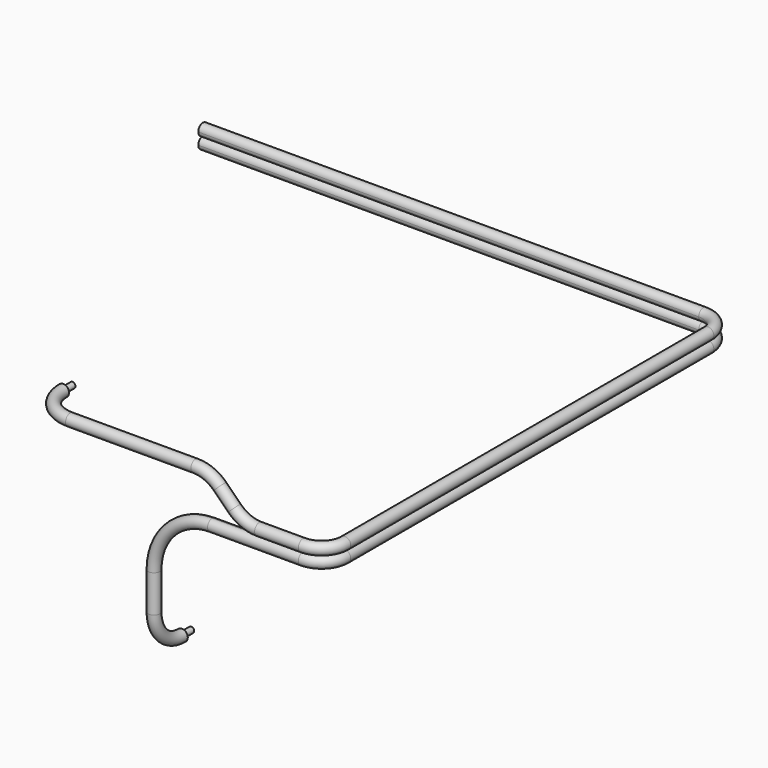
from build123d import *

# Parameters (mm, degrees)
F5_FACE_R  = 0.5
F10_FACE_R = 0.5
F14_R      = 0.25


with BuildPart() as f3:
    # F3: sweep along a path in F0
    with BuildLine(Plane.XY) as f3_path:
        ThreePointArc((23, 0), (24.4142135624, 0.5857864376), (25, 2))
        Line((25, 2), (25, 41))
        ThreePointArc((25, 41), (24.4142135624, 42.4142135624), (23, 43))
        Line((23, 43), (-20, 43))
    # F2 (on plane+point) → F3 (sweep)
    with BuildSketch(Plane.YZ.offset(23)):
        with BuildLine():
            ThreePointArc((0, 0.5), (-0.3535533906, -0.3535533906), (0.5, 0))
            ThreePointArc((0.5, 0), (0.3535533906, 0.3535533906), (0, 0.5))
        make_face()
        with BuildLine():
            ThreePointArc((0.5, 1), (-0.3535533906, 1.3535533906), (0, 0.5))
            ThreePointArc((0, 0.5), (0.3535533906, 0.6464466094), (0.5, 1))
        make_face()
    sweep(path=f3_path.line)

    # F5: sweep along a path in F4
    with BuildLine(Plane.XZ) as f5_path:
        Line((23, 1), (19.2426406871, 1))
        ThreePointArc((19.2426406871, 1), (18.09459039, 1.2283614025), (17.1213203436, 1.8786796564))
        Line((17.1213203436, 1.8786796564), (15.8786796564, 3.1213203436))
        ThreePointArc((15.8786796564, 3.1213203436), (14.90540961, 3.7716385975), (13.7573593129, 4))
        Line((13.7573593129, 4), (3, 4))
    # F2 (on plane+point) → F5 (sweep)
    with BuildSketch(Plane.YZ.offset(23)):
        with BuildLine():
            ThreePointArc((0.5, 1), (-0.3535533906, 1.3535533906), (0, 0.5))
            ThreePointArc((0, 0.5), (0.3535533906, 0.6464466094), (0.5, 1))
        make_face()
    sweep(path=f5_path.line)

    # F8: sweep along a path in F7
    with BuildLine(Plane.XY.offset(4)) as f8_path:
        ThreePointArc((0, 3), (0.8786796564, 0.8786796564), (3, 0))
    # F5_face (on face) → F8 (sweep)
    with BuildSketch(Plane(origin=(3, 0, 4), x_dir=(0, -1, 0), z_dir=(-1, 0, 0))):
        Circle(F5_FACE_R)
    sweep(path=f8_path.line)

    # F10: sweep along a path in F9
    with BuildLine(Plane.XZ) as f10_path:
        Line((23, 0), (15.2, 0))
        ThreePointArc((15.2, 0), (11.6644660941, -1.4644660941), (10.2, -5))
        Line((10.2, -5), (10.2, -8.2))
    # F2 (on plane+point) → F10 (sweep)
    with BuildSketch(Plane.YZ.offset(23)):
        with BuildLine():
            ThreePointArc((0, 0.5), (-0.3535533906, -0.3535533906), (0.5, 0))
            ThreePointArc((0.5, 0), (0.3535533906, 0.3535533906), (0, 0.5))
        make_face()
    sweep(path=f10_path.line)

    # F13: sweep along a path in F12
    with BuildLine(Plane.YZ.offset(10.2)) as f13_path:
        ThreePointArc((0, -8.2), (0.8786796564, -10.3213203436), (3, -11.2))
    # F10_face (on face) → F13 (sweep)
    with BuildSketch(Plane(origin=(10.2, 0, -8.2), x_dir=(1, 0, 0), z_dir=(0, 0, -1))):
        Circle(F10_FACE_R)
    sweep(path=f13_path.line)

    # F15: sweep along a path in F7
    with BuildLine(Plane.XY.offset(4)) as f15_path:
        Line((0, 3), (0, 4))
    # F14 (on face) → F15 (sweep)
    with BuildSketch(Plane(origin=(0, 3, 0), x_dir=(-1, 0, 0), z_dir=(0, 1, 0))):
        with Locations((0, 4)):
            Circle(F14_R)
        with Locations((-10.2, -11.2)):
            Circle(F14_R)
    sweep(path=f15_path.line)


solid = f3.part
